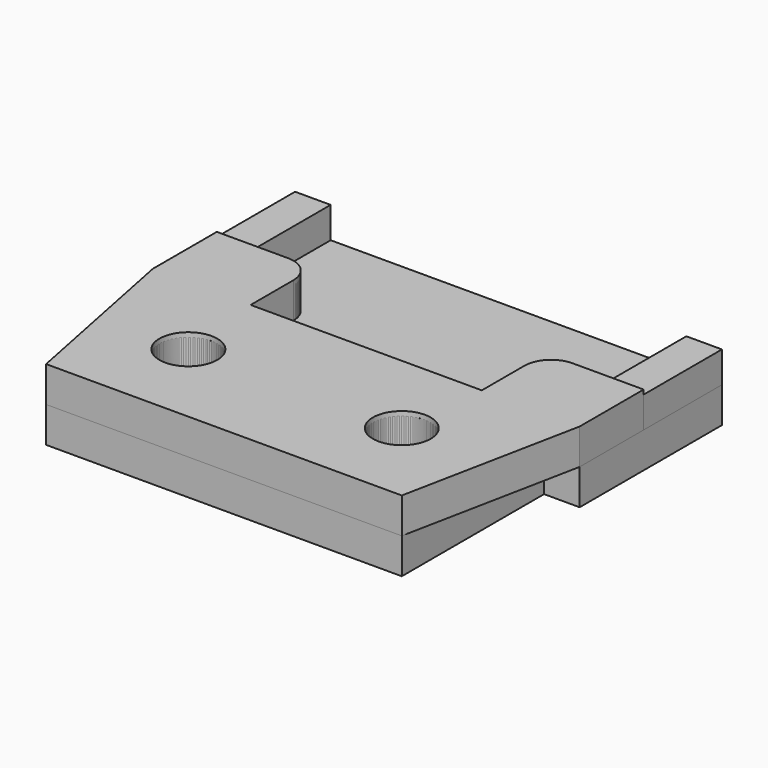
from build123d import *

# Parameters (mm, degrees)
F0_W      = 20
F0_H      = 10
F1_DEPTH  = 1.75
F0_W_2    = 2
F2_DEPTH  = 1.75
F3_DEPTH  = 1.75
F0_R      = 1.5
F4_DEPTH  = 2
F5_DEPTH  = 1.75
F6_D      = 3.25
F7_D      = 3.25
F8_D      = 3.25
F9_D      = 3.25
F10_R     = 1.625
F11_DEPTH = 2


with BuildPart() as f1:
    # F0 (on Top) → F1 (new body)
    with BuildSketch(Plane.XY):
        with Locations((0, -5)):
            Rectangle(F0_W, F0_H)
    extrude(amount=F1_DEPTH)

    # F6 (through all)
    with Locations(Plane(origin=(0, 0, 0), x_dir=(1, 0, 0), z_dir=(0, 0, -1))):
        with Locations((-6, 5)):
            Hole(F6_D / 2)

    # F7 (through all)
    with Locations(Plane(origin=(0, 0, 0), x_dir=(1, 0, 0), z_dir=(0, 0, -1))):
        with Locations((6, 5)):
            Hole(F7_D / 2)


with BuildPart() as f2:
    # F0 (on Top) → F2 (new body)
    with BuildSketch(Plane.XY):
        with Locations((11, 5)):
            Rectangle(F0_W_2, F0_H)
    extrude(amount=F2_DEPTH)


with BuildPart() as f3:
    # F0 (on Top) → F3 (new body)
    with BuildSketch(Plane.XY):
        with Locations((-11, 5)):
            Rectangle(F0_W_2, F0_H)
    extrude(amount=F3_DEPTH)


with BuildPart() as f4:
    # F0 (on Top) → F4 (new body)
    with BuildSketch(Plane.XY):
        with Locations((-11, 5)):
            Rectangle(F0_W_2, F0_H)
        with Locations((0, 5)):
            Rectangle(F0_W, F0_H)
        with Locations((-8, 3)):
            Circle(F0_R, mode=Mode.SUBTRACT)
        with Locations((8, 3)):
            Circle(F0_R, mode=Mode.SUBTRACT)
        with Locations((-8, 3)):
            Circle(F0_R)
        with Locations((8, 3)):
            Circle(F0_R)
        with Locations((11, 5)):
            Rectangle(F0_W_2, F0_H)
        with Locations((0, -5)):
            Rectangle(F0_W, F0_H)
    extrude(amount=-F4_DEPTH)

    # F0 (on Top) → F5 (join)
    with BuildSketch(Plane.XY):
        with Locations((-8, 3)):
            Circle(F0_R)
        with Locations((8, 3)):
            Circle(F0_R)
    extrude(amount=F5_DEPTH)

    # F8 (through all)
    with Locations(Plane.XY):
        with Locations((-6, -5)):
            Hole(F8_D / 2)

    # F9 (through all)
    with Locations(Plane.XY):
        with Locations((6, -5)):
            Hole(F9_D / 2)


with BuildPart() as f11:
    # F10 (on Top) → F11 (new body)
    with BuildSketch(Plane.XY):
        with BuildLine():
            Line((-12, 0), (-10, -10))
            Line((-10, -10), (10, -10))
            Line((10, -10), (12, 0))
            Line((12, 0), (12, 4.5))
            Line((12, 4.5), (8, 4.5))
            ThreePointArc((8, 4.5), (6.9393398282, 4.0606601718), (6.5, 3))
            Line((6.5, 3), (6.5, 0))
            Line((6.5, 0), (-6.5, 0))
            Line((-6.5, 0), (-6.5, 3))
            ThreePointArc((-6.5, 3), (-6.9393398282, 4.0606601718), (-8, 4.5))
            Line((-8, 4.5), (-12, 4.5))
            Line((-12, 4.5), (-12, 0))
        make_face()
        with Locations((-6, -5)):
            Circle(F10_R, mode=Mode.SUBTRACT)
        with Locations((6, -5)):
            Circle(F10_R, mode=Mode.SUBTRACT)
    extrude(amount=F11_DEPTH)


solid = Compound([f1.part, f2.part, f3.part, f4.part, f11.part])
